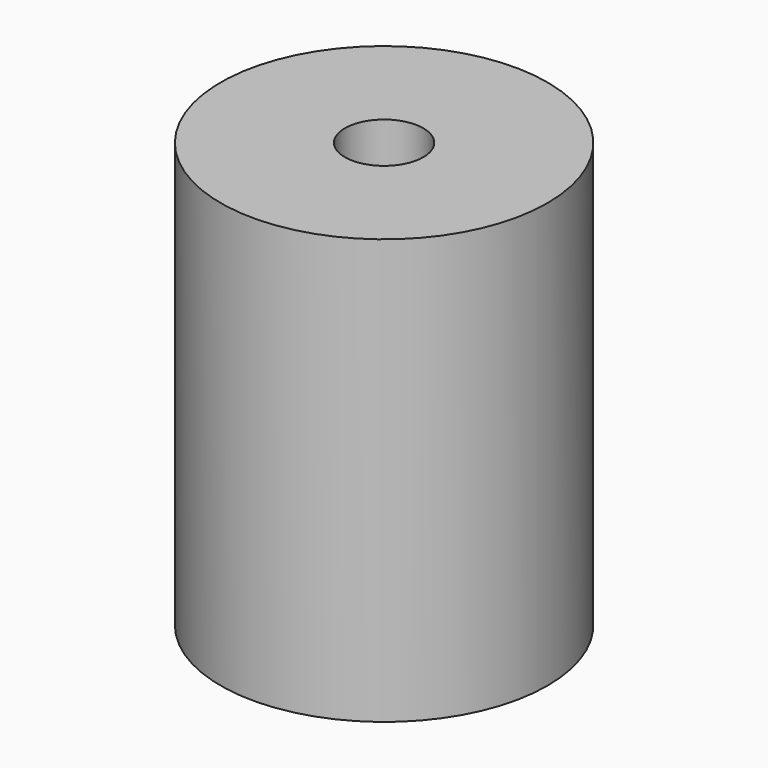
from build123d import *

# Parameters (mm, degrees)
F0_R     = 25
F0_R_2   = 17.55
F1_DEPTH = 65
F2_R     = 6
F3_DEPTH = 65.001
F4_R     = 17.55
F5_DEPTH = 27


with BuildPart() as f1:
    # F0 (on Top) → F1 (new body)
    with BuildSketch(Plane.XY):
        Circle(F0_R)
        Circle(F0_R_2, mode=Mode.SUBTRACT)
        Circle(F0_R_2)
    extrude(amount=F1_DEPTH)

    # F2 (on face) → F3 (cut, through all)
    with BuildSketch(Plane(origin=(0, 0, 0), x_dir=(1, 0, 0), z_dir=(0, 0, -1))):
        Circle(F2_R)
    extrude(amount=-F3_DEPTH, mode=Mode.SUBTRACT)

    # F4 (on face) → F5 (cut)
    with BuildSketch(Plane(origin=(0, 0, 0), x_dir=(1, 0, 0), z_dir=(0, 0, -1))):
        Circle(F4_R)
    extrude(amount=-F5_DEPTH, mode=Mode.SUBTRACT)


solid = f1.part
